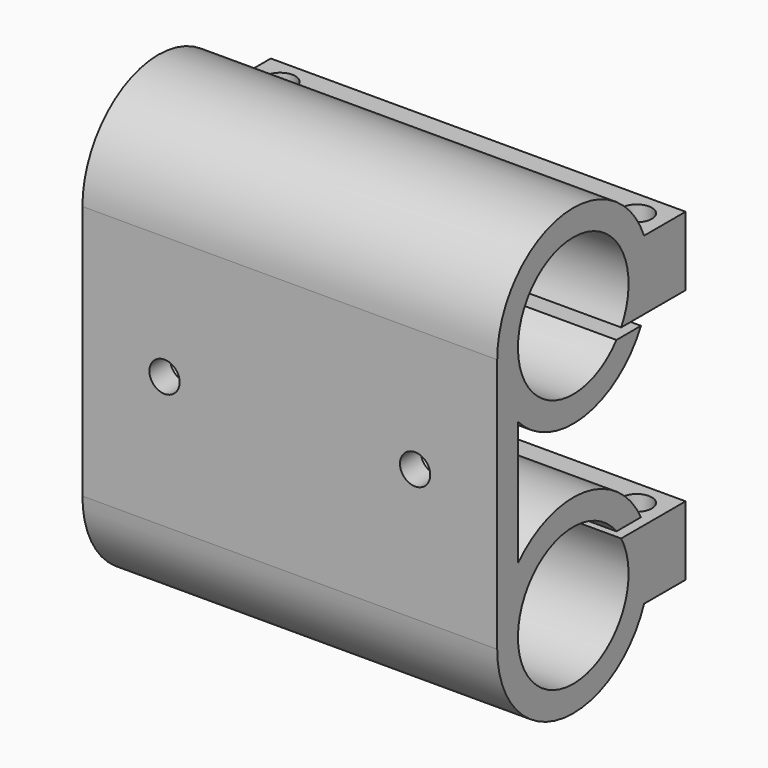
from build123d import *

# Parameters (mm, degrees)
F1_R     = 8
F2_DEPTH = 48
F3_R     = 1.75
F4_DEPTH = 5
F5_R     = 1.75
F6_DEPTH = 50
F7_W     = 4.0019527676
F7_H     = 1
F8_DEPTH = 80


with BuildPart() as f2:
    # F1 (on Right) → F2 (new body)
    with BuildSketch(Plane.YZ):
        with BuildLine():
            ThreePointArc((-11, 14.2537585227), (-10.2225241501, 10.1917393204), (-8, 6.7039240874))
            ThreePointArc((-8, 6.7039240874), (2.1006018341, 3.4561906514), (10.246950766, 10.2537585227))
            ThreePointArc((10.246950766, 10.2537585227), (10.810098483, 12.218624427), (11, 14.2537585227))
            ThreePointArc((11, 14.2537585227), (10.810098483, 16.2888926183), (10.246950766, 18.2537585227))
            ThreePointArc((10.246950766, 18.2537585227), (-2.0351340956, 25.0638570057), (-11, 14.2537585227))
        make_face()
        with Locations((0, 14.2537585227)):
            Circle(F1_R, mode=Mode.SUBTRACT)
        with BuildLine():
            ThreePointArc((-11, -15.2462414773), (-10.2225241501, -11.184222275), (-8, -7.6964070421))
            Line((-8, -7.6964070421), (-8, 6.7039240874))
            ThreePointArc((-8, 6.7039240874), (-10.2225241501, 10.1917393204), (-11, 14.2537585227))
            Line((-11, 14.2537585227), (-11, -15.2462414773))
        make_face()
        with BuildLine():
            ThreePointArc((10.246950766, -19.2462414773), (10.810098483, -17.281375573), (11, -15.2462414773))
            ThreePointArc((11, -15.2462414773), (10.810098483, -13.2111073817), (10.246950766, -11.2462414773))
            ThreePointArc((10.246950766, -11.2462414773), (2.1006018341, -4.4486736061), (-8, -7.6964070421))
            ThreePointArc((-8, -7.6964070421), (-10.2225241501, -11.184222275), (-11, -15.2462414773))
            ThreePointArc((-11, -15.2462414773), (-2.0351340956, -26.0563399604), (10.246950766, -19.2462414773))
        make_face()
        with Locations((0, -15.2462414773)):
            Circle(F1_R, mode=Mode.SUBTRACT)
        with BuildLine():
            ThreePointArc((10.246950766, -11.2462414773), (10.810098483, -13.2111073817), (11, -15.2462414773))
            ThreePointArc((11, -15.2462414773), (10.810098483, -17.281375573), (10.246950766, -19.2462414773))
            Line((10.246950766, -19.2462414773), (16.246950766, -19.2462414773))
            Line((16.246950766, -19.2462414773), (16.246950766, -11.2462414773))
            Line((16.246950766, -11.2462414773), (10.246950766, -11.2462414773))
        make_face()
        with BuildLine():
            ThreePointArc((11, 14.2537585227), (10.810098483, 12.218624427), (10.246950766, 10.2537585227))
            Line((10.246950766, 10.2537585227), (16.246950766, 10.2537585227))
            Line((16.246950766, 10.2537585227), (16.246950766, 18.2537585227))
            Line((16.246950766, 18.2537585227), (10.246950766, 18.2537585227))
            ThreePointArc((10.246950766, 18.2537585227), (10.810098483, 16.2888926183), (11, 14.2537585227))
        make_face()
    extrude(amount=F2_DEPTH)

    # F3 (on face) → F4 (cut)
    with BuildSketch(Plane.XZ.offset(11)):
        with Locations((38.5, 0)):
            Circle(F3_R)
        with Locations((9.5, 0)):
            Circle(F3_R)
    extrude(amount=-F4_DEPTH, mode=Mode.SUBTRACT)

    # F5 (on face) → F6 (cut)
    with BuildSketch(Plane.XY.offset(18.2537585227)):
        with Locations((3.5, 13.246950766)):
            Circle(F5_R)
        with Locations((44.749999574, 13.243720019)):
            Circle(F5_R)
    extrude(amount=-F6_DEPTH, mode=Mode.SUBTRACT)

    # F7 (on face) → F8 (cut)
    with BuildSketch(Plane.YZ.offset(48)):
        with Locations((8.2459743822, 9.7537585227)):
            Rectangle(F7_W, F7_H)
        with Locations((8.2459743822, -10.7462414773)):
            Rectangle(F7_W, F7_H)
    extrude(amount=-F8_DEPTH, mode=Mode.SUBTRACT)


solid = f2.part
